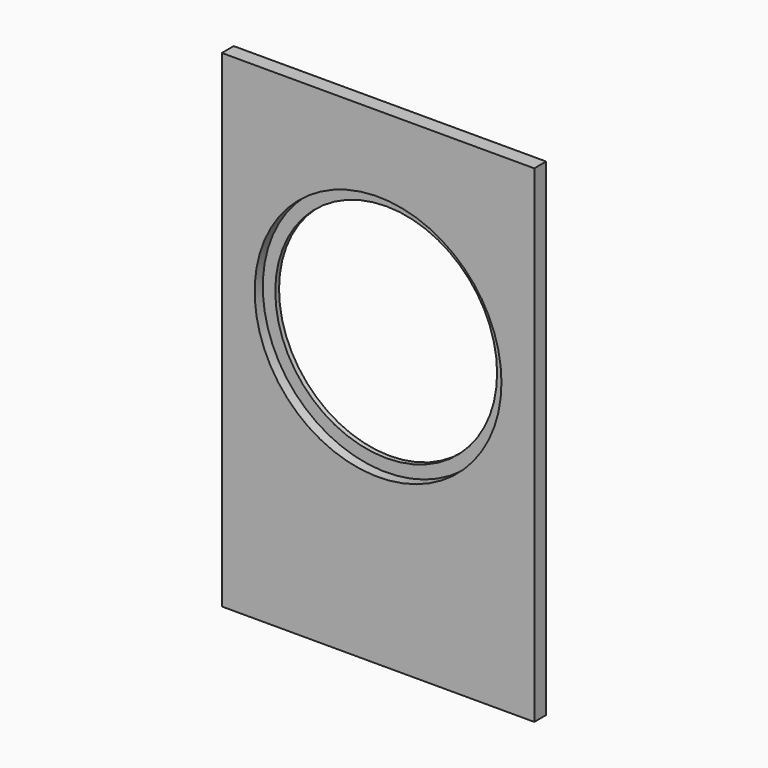
from build123d import *

# Parameters (mm, degrees)
F0_W     = 400
F0_H     = 624
F0_R     = 158
F1_DEPTH = 19
F0_R_2   = 142
F2_DEPTH = 6


with BuildPart() as f1:
    # F0 (on Front) → F1 (new body)
    with BuildSketch(Plane.XZ):
        with Locations((200, 312)):
            Rectangle(F0_W, F0_H)
        with Locations((200, 369)):
            Circle(F0_R, mode=Mode.SUBTRACT)
    extrude(amount=F1_DEPTH)

    # F0 (on Front) → F2 (join)
    with BuildSketch(Plane.XZ):
        with Locations((200, 369)):
            Circle(F0_R)
        with Locations((200, 369)):
            Circle(F0_R_2, mode=Mode.SUBTRACT)
    extrude(amount=F2_DEPTH)


solid = f1.part
